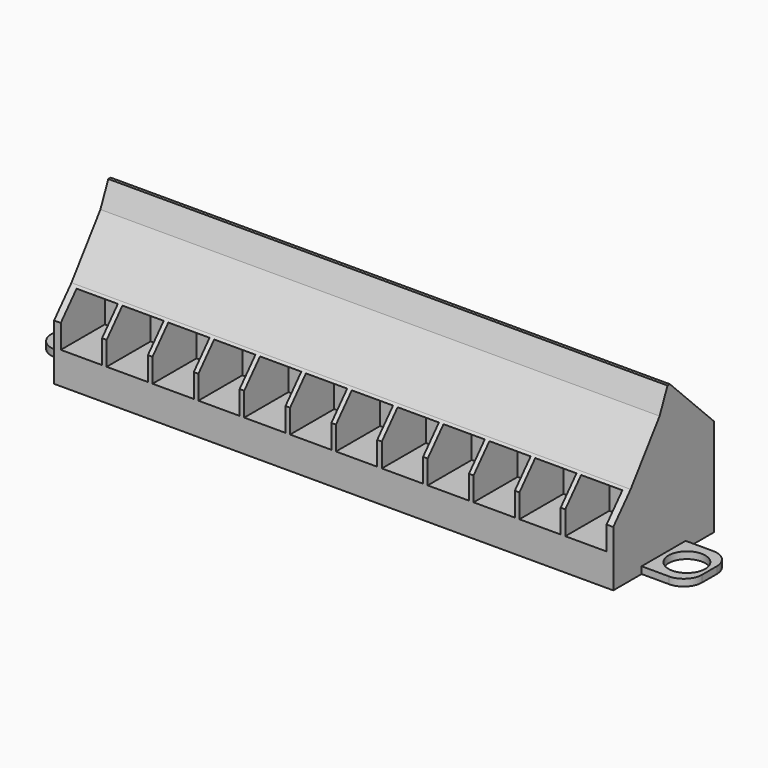
from build123d import *

# Parameters (mm, degrees)
F0_W      = 60.96
F0_H      = 13.716
F1_DEPTH  = 16.657
F3_DEPTH  = 60.961
F5_W      = 4.5
F5_H      = 5
F4_R      = 2.25
F6_DEPTH  = 6
F7_R      = 2.25
F8_DEPTH  = 2
F9_W      = 6
F9_H      = 0.75
F10_DEPTH = 5
F11_W     = 6
F11_H     = 0.75
F12_DEPTH = 5
F13_R     = 2
F14_R     = 2
F15_DEPTH = 0.751
F16_R     = 2
F17_DEPTH = 0.751


with BuildPart() as f1:
    # F0 (on Top) → F1 (new body)
    with BuildSketch(Plane.XY):
        Rectangle(F0_W, F0_H)
    extrude(amount=F1_DEPTH)

    # F2 (on face) → F3 (cut, through all)
    with BuildSketch(Plane(origin=(-30.48, 0, 0), x_dir=(0, -1, 0), z_dir=(-1, 0, 0))):
        Polygon((-6.858, 10.657), (-0.858, 16.657), (-6.858, 16.657), align=None)
        Polygon((6.858, 16.657), (-0.5295271985, 16.657), (0.5445904681, 14.1634047031), (4.491972737, 8.7391110137), (6.858, 6.0806702822), align=None)
    extrude(amount=-F3_DEPTH, mode=Mode.SUBTRACT)

    # F5 (on face) + F4 (on face) → F6 (cut)
    with BuildSketch(Plane.XZ.offset(6.858)):
        with Locations((-27.5, 6)):
            Rectangle(F5_W, F5_H)
        with Locations((-22.5, 6)):
            Rectangle(F5_W, F5_H)
        with Locations((-17.5, 6)):
            Rectangle(F5_W, F5_H)
        with Locations((-12.5, 6)):
            Rectangle(F5_W, F5_H)
        with Locations((-7.5, 6)):
            Rectangle(F5_W, F5_H)
        with Locations((-2.5, 6)):
            Rectangle(F5_W, F5_H)
        with Locations((2.5, 6)):
            Rectangle(F5_W, F5_H)
        with Locations((7.5, 6)):
            Rectangle(F5_W, F5_H)
        with Locations((12.5, 6)):
            Rectangle(F5_W, F5_H)
        with Locations((17.5, 6)):
            Rectangle(F5_W, F5_H)
        with Locations((22.5, 6)):
            Rectangle(F5_W, F5_H)
        with Locations((27.5, 6)):
            Rectangle(F5_W, F5_H)
    with BuildSketch(Plane(origin=(0, 6.858, 0), x_dir=(-1, 0, 0), z_dir=(0, 1, 0))):
        with Locations((27.5, 5.3285)):
            Circle(F4_R)
        with Locations((22.5, 5.3285)):
            Circle(F4_R)
        with Locations((17.5, 5.3285)):
            Circle(F4_R)
        with Locations((12.5, 5.3285)):
            Circle(F4_R)
        with Locations((7.5, 5.3285)):
            Circle(F4_R)
        with Locations((2.5, 5.3285)):
            Circle(F4_R)
        with Locations((-2.5, 5.3285)):
            Circle(F4_R)
        with Locations((-7.5, 5.3285)):
            Circle(F4_R)
        with Locations((-12.5, 5.3285)):
            Circle(F4_R)
        with Locations((-17.5, 5.3285)):
            Circle(F4_R)
        with Locations((-22.5, 5.3285)):
            Circle(F4_R)
        with Locations((-27.5, 5.3285)):
            Circle(F4_R)
    extrude(amount=-F6_DEPTH, dir=(0, -1, 0), mode=Mode.SUBTRACT)

    # F7 (on face) → F8 (cut)
    with BuildSketch(Plane(origin=(0, 8.7575, 8.7575), x_dir=(1, 0, 0), z_dir=(0, 0.7071067812, 0.7071067812))):
        with Locations((-27.5, -6.9289393488)):
            Circle(F7_R)
        with Locations((-22.5, -6.9289393488)):
            Circle(F7_R)
        with Locations((-17.5, -6.9289393488)):
            Circle(F7_R)
        with Locations((-12.5, -6.9289393488)):
            Circle(F7_R)
        with Locations((-7.5, -6.9289393488)):
            Circle(F7_R)
        with Locations((-2.5, -6.9289393488)):
            Circle(F7_R)
        with Locations((2.5, -6.9289393488)):
            Circle(F7_R)
        with Locations((7.5, -6.9289393488)):
            Circle(F7_R)
        with Locations((12.5, -6.9289393488)):
            Circle(F7_R)
        with Locations((17.5, -6.9289393488)):
            Circle(F7_R)
        with Locations((22.5, -6.9289393488)):
            Circle(F7_R)
        with Locations((27.5, -6.9289393488)):
            Circle(F7_R)
    extrude(amount=-F8_DEPTH, mode=Mode.SUBTRACT)

    # F9 (on face) → F10 (join)
    with BuildSketch(Plane(origin=(-30.48, 0, 0), x_dir=(0, -1, 0), z_dir=(-1, 0, 0))):
        with Locations((0, 0.375)):
            Rectangle(F9_W, F9_H)
    extrude(amount=F10_DEPTH)

    # F11 (on face) → F12 (join)
    with BuildSketch(Plane.YZ.offset(30.48)):
        with Locations((0, 0.375)):
            Rectangle(F11_W, F11_H)
    extrude(amount=F12_DEPTH)

    # F13
    f13_edges = [f1.edges().sort_by_distance(p)[0] for p in [
        (-35.48, 3, 0.375),
        (-35.48, -3, 0.375),
        (35.48, -3, 0.375),
        (35.48, 3, 0.375),
    ]]
    fillet(f13_edges, radius=F13_R)

    # F14 (on face) → F15 (cut, through all)
    with BuildSketch(Plane.XY.offset(0.75)):
        with Locations((-33.02, 0)):
            Circle(F14_R)
    extrude(amount=-F15_DEPTH, mode=Mode.SUBTRACT)

    # F16 (on face) → F17 (cut, through all)
    with BuildSketch(Plane.XY.offset(0.75)):
        with Locations((33.02, 0)):
            Circle(F16_R)
    extrude(amount=-F17_DEPTH, mode=Mode.SUBTRACT)


solid = f1.part
